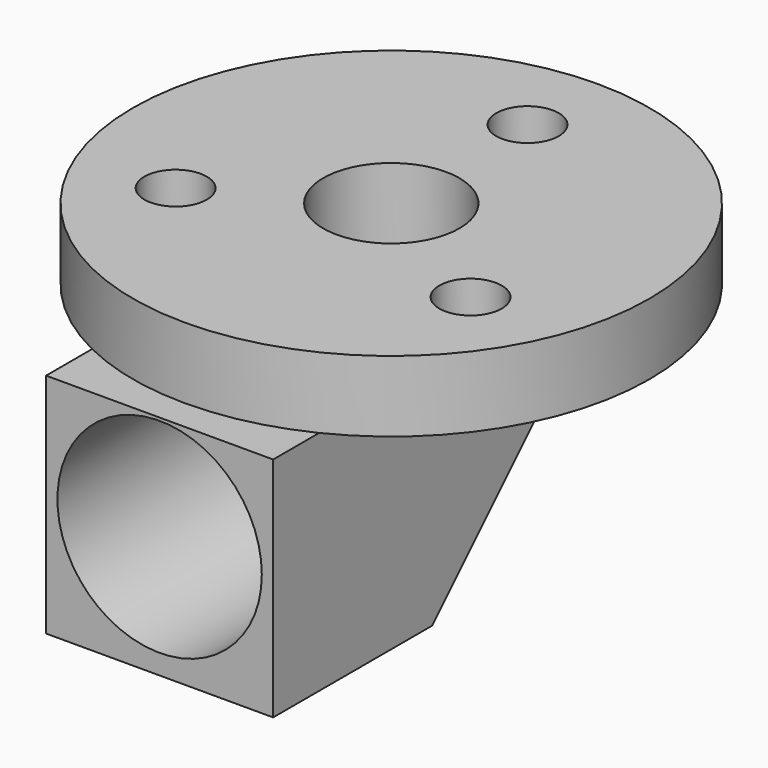
from build123d import *

# Parameters (mm, degrees)
SKETCH027_R     = 9.1
PAD020_DEPTH    = 2.5
SKETCH081_R     = 1.1
SKETCH081_R_2   = 2.4
POCKET030_DEPTH = 2.5
SKETCH028_W     = 8
SKETCH028_H     = 15
PAD021_DEPTH    = 8
POCKET031_DEPTH = 8
SKETCH030_R     = 2.4
POCKET032_DEPTH = 8
SKETCH031_R     = 3.6
POCKET033_DEPTH = 20


with BuildPart() as part:
    # Sketch027 → Pad020 (new body)
    with BuildSketch(Plane.XY):
        Circle(SKETCH027_R)
    extrude(amount=PAD020_DEPTH)

    # Sketch081 (on Face3 of Pad020) → Pocket030 (cut)
    with BuildSketch(Plane.XY.offset(2.5)):
        with Locations((0, 6)):
            Circle(SKETCH081_R)
        with Locations((5.195, -3.001995)):
            Circle(SKETCH081_R)
        with Locations((-5.195, -3.001995)):
            Circle(SKETCH081_R)
        Circle(SKETCH081_R_2)
    extrude(amount=-POCKET030_DEPTH, mode=Mode.SUBTRACT)

    # Sketch028 (on Face2 of Pocket030) → Pad021 (join)
    with BuildSketch(Plane(origin=(0, 0, 0), x_dir=(1, 0, 0), z_dir=(0, 0, -1))):
        with Locations((0, 2.7)):
            Rectangle(SKETCH028_W, SKETCH028_H)
    extrude(amount=PAD021_DEPTH)

    # Sketch029 (on Face7 of Pad021) → Pocket031 (cut)
    with BuildSketch(Plane(origin=(-4, 0, 0), x_dir=(0, -1, 0), z_dir=(-1, 0, 0))):
        Polygon((-4.8, 0), (3.2, -8), (-4.8, -8), align=None)
    extrude(amount=-POCKET031_DEPTH, mode=Mode.SUBTRACT)

    # Sketch030 (on Face14 of Pocket031) → Pocket032 (cut)
    with BuildSketch(Plane.XY):
        Circle(SKETCH030_R)
    extrude(amount=-POCKET032_DEPTH, mode=Mode.SUBTRACT)

    # Sketch031 (on Face11 of Pocket032) → Pocket033 (cut)
    with BuildSketch(Plane.XZ.offset(10.2)):
        with Locations((0, -3.7)):
            Circle(SKETCH031_R)
    extrude(amount=-POCKET033_DEPTH, mode=Mode.SUBTRACT)


with BuildPart() as part_1:
    # Body013 placement: moved
    add(part.part.moved(Location((81.5, 70, 9.25))))


solid = part_1.part
